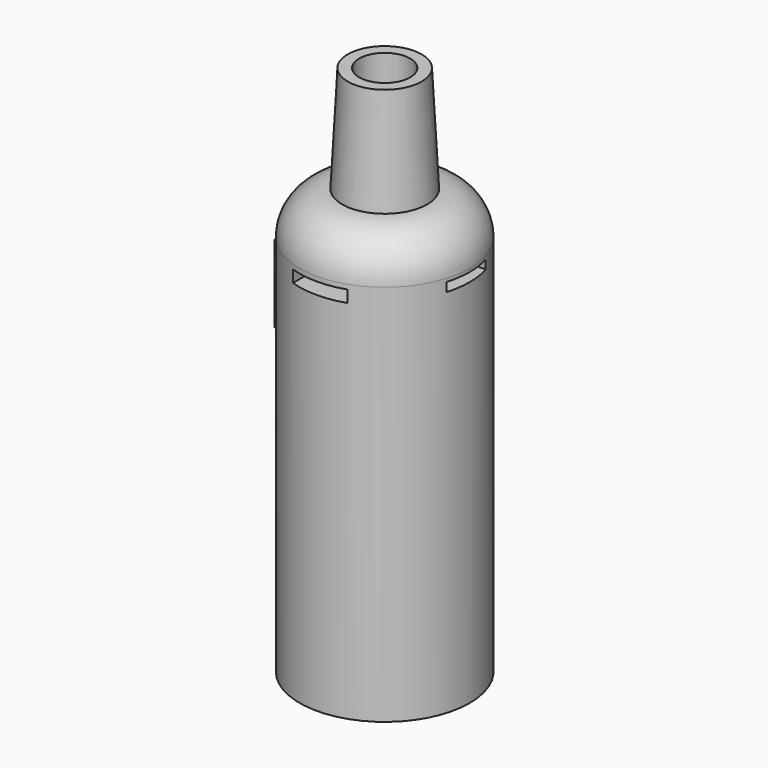
from build123d import *

# Parameters (mm, degrees)
F0_R      = 20
F1_DEPTH  = 100
F2_R      = 10
F3_DEPTH  = 25
F3_TAPER  = 3
F4_R      = 10
F5_R      = 6
F6_DEPTH  = 25
F8_W      = 12.2296223417
F8_H      = 18.1697160006
F9_DEPTH  = 3
F11_W     = 12.8006860614
F11_H     = 2.7982592583
F12_DEPTH = 50
F14_W     = 11.5454401821
F14_H     = 2.0991712809
F15_DEPTH = 50


with BuildPart() as f1:
    # F0 (on Top) → F1 (new body)
    with BuildSketch(Plane.XY):
        Circle(F0_R)
    extrude(amount=F1_DEPTH)

    # F4
    f4_edges = [f1.edges().sort_by_distance(p)[0] for p in [
        (-20, 0, 100),
    ]]
    fillet(f4_edges, radius=F4_R)

    # F8 (on offset) → F9 (join)
    with BuildSketch(Plane.YZ.offset(-18)):
        with Locations((0, 76.0149732232)):
            Rectangle(F8_W, F8_H)
    extrude(amount=-F9_DEPTH)

    # F11 (on offset) → F12 (cut)
    with BuildSketch(Plane.XZ.offset(21)):
        with Locations((0, 87.5067338347)):
            Rectangle(F11_W, F11_H)
    extrude(amount=-F12_DEPTH, mode=Mode.SUBTRACT)

    # F14 (on offset) → F15 (cut)
    with BuildSketch(Plane.YZ.offset(-21)):
        with Locations((0, 88.1978794932)):
            Rectangle(F14_W, F14_H)
    extrude(amount=F15_DEPTH, mode=Mode.SUBTRACT)


with BuildPart() as f3:
    # F2 (on face) → F3 (new body)
    with BuildSketch(Plane.XY.offset(100)):
        Circle(F2_R)
    extrude(amount=F3_DEPTH, taper=F3_TAPER)

    # F5 (on face) → F6 (cut)
    with BuildSketch(Plane.XY.offset(125)):
        Circle(F5_R)
    extrude(amount=-F6_DEPTH, mode=Mode.SUBTRACT)


solid = Compound([f1.part, f3.part])
